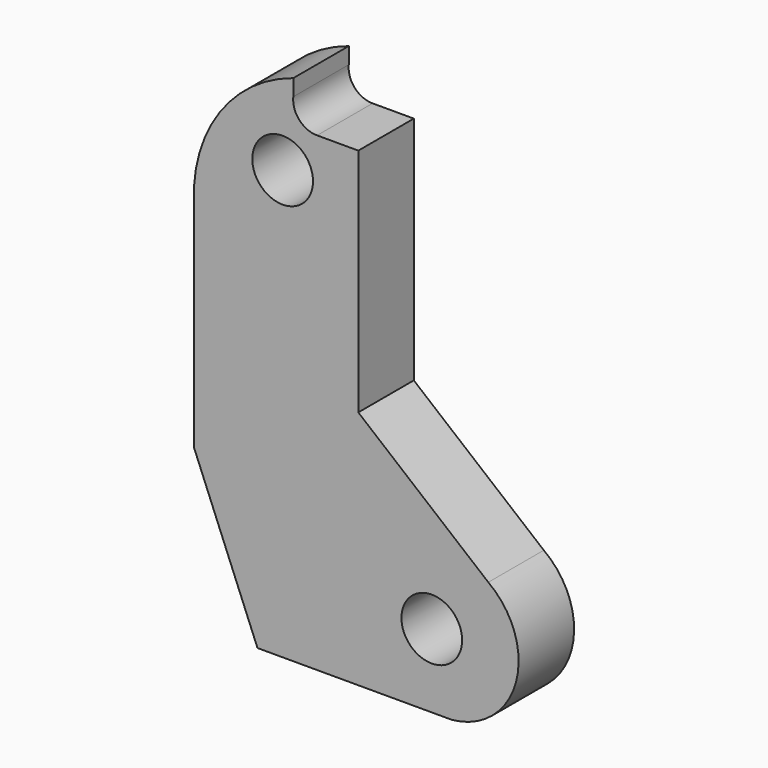
from build123d import *

# Parameters (mm, degrees)
CYLINDER058_R     = 1.75
CYLINDER058_DEPTH = 15
CYLINDER057_R     = 1.75
CYLINDER057_DEPTH = 15
EXTRUDE001_DEPTH  = 4


with BuildPart() as m3holds026:
    # Cylinder058 → Cylinder058 (new body)
    with BuildSketch(Plane(origin=(14.6, 0.25, 61.5), x_dir=(1, 0, 0), z_dir=(0, -1, 0))):
        Circle(CYLINDER058_R)
    extrude(amount=CYLINDER058_DEPTH)


with BuildPart() as fusion066:
    # Cylinder057 → Cylinder057 (new body)
    with BuildSketch(Plane(origin=(6, 0.25, 82), x_dir=(1, 0, 0), z_dir=(0, -1, 0))):
        Circle(CYLINDER057_R)
    extrude(amount=CYLINDER057_DEPTH)

    # Fusion066: union m3Holds026
    add(m3holds026.part)


with BuildPart() as c4holdtopleft:
    # Sketch003 → Extrude001 (new body)
    with BuildSketch(Plane.XZ):
        with BuildLine():
            Line((4.549471, 57.267887), (0.883944, 66.268614))
            Line((0.883944, 78.654398), (0.883944, 66.268614))
            ThreePointArc((6.613358, 86.871608), (2.353967, 83.73544), (0.883944, 78.654398))
            Line((6.613358, 85.92654), (6.613358, 86.871608))
            ThreePointArc((6.613358, 85.92654), (6.959213, 84.860057), (7.986391, 84.410718))
            Line((10.364112, 84.410718), (7.986391, 84.410718))
            Line((10.364112, 71.120834), (10.364112, 84.410718))
            Line((17.859817, 64.935078), (10.364112, 71.120834))
            ThreePointArc((15.746783, 57.267887), (19.454521, 60.370821), (17.859817, 64.935078))
            Line((4.549471, 57.267887), (15.746783, 57.267887))
        make_face()
    extrude(amount=EXTRUDE001_DEPTH)


with BuildPart() as c4holdtopleft_1:
    # Extrude001 placement: moved
    add(c4holdtopleft.part.moved(Location((0, -8, 0))))

    # Cut011: cut Fusion066
    add(fusion066.part, mode=Mode.SUBTRACT)


solid = c4holdtopleft_1.part
